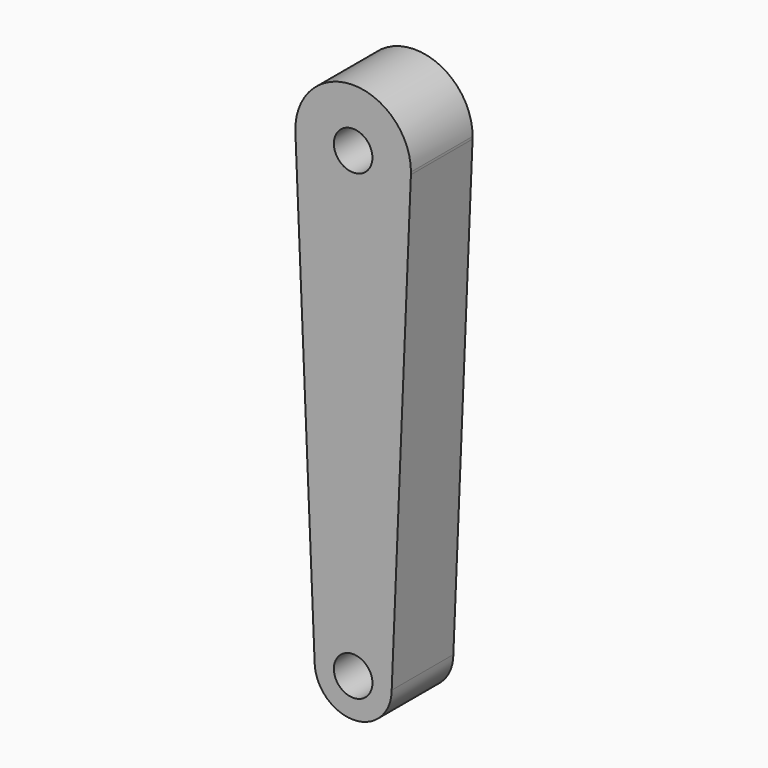
from build123d import *

# Parameters (mm, degrees)
F0_R     = 5
F1_DEPTH = 20


with BuildPart() as f1:
    # F0 (on Front) → F1 (new body)
    with BuildSketch(Plane.XZ):
        with BuildLine():
            ThreePointArc((14.986928, -0.626089), (0, -15), (-14.986928, -0.626089))
            Line((-14.986928, -0.626089), (-10, -120))
            ThreePointArc((-10, -120), (0, -110), (10, -120))
            Line((10, -120), (14.986928, -0.626089))
        make_face()
        with BuildLine():
            ThreePointArc((14.986928, -0.626089), (14.996732, -0.313113), (15, 0))
            ThreePointArc((15, 0), (-0.313113, 14.996732), (-14.986928, -0.626089))
            ThreePointArc((-14.986928, -0.626089), (0, -15), (14.986928, -0.626089))
        make_face()
        Circle(F0_R, mode=Mode.SUBTRACT)
        with BuildLine():
            ThreePointArc((10, -120), (0, -110), (-10, -120))
            ThreePointArc((-10, -120), (0, -130), (10, -120))
        make_face()
        with Locations((0, -120)):
            Circle(F0_R, mode=Mode.SUBTRACT)
    extrude(amount=F1_DEPTH)


solid = f1.part
